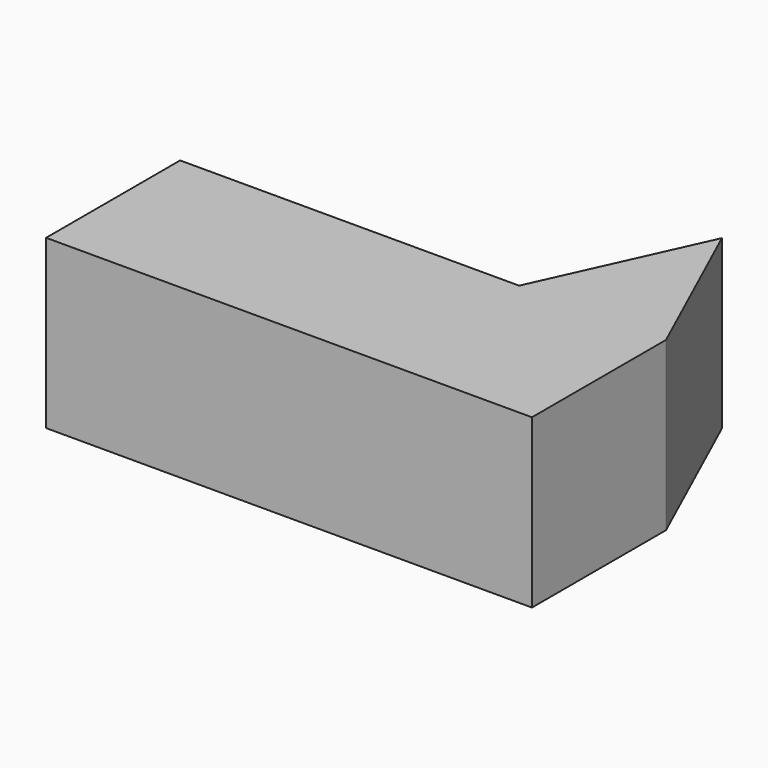
from build123d import *

# Parameters (mm, degrees)
F1_DEPTH = 10


with BuildPart() as f1:
    # F0 (on Top) → F1 (new body)
    with BuildSketch(Plane.XY):
        Polygon((5.733538, 5), (-14.5, 5), (-14.5, -5), (14.5, -5), (14.5, 5), align=None)
        Polygon((10.116769, 14.651284), (5.733538, 5), (14.5, 5), align=None)
    extrude(amount=F1_DEPTH)


solid = f1.part
